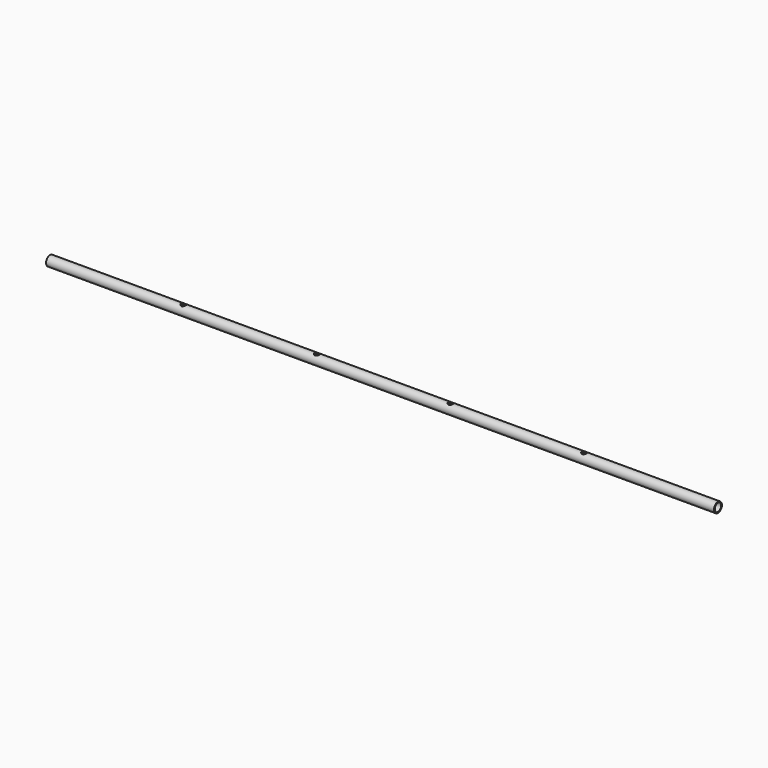
from build123d import *

# Parameters (mm, degrees)
F0_R     = 12.7
F0_R_2   = 10.210562
F1_DEPTH = 1706.88
F2_R     = 6.35
F3_DEPTH = 25.4


with BuildPart() as f1:
    # F0 (on Right) → F1 (new body)
    with BuildSketch(Plane.YZ):
        Circle(F0_R)
        Circle(F0_R_2, mode=Mode.SUBTRACT)
    extrude(amount=F1_DEPTH)

    # F2 (on Top) → F3 (cut)
    with BuildSketch(Plane.XY):
        with Locations((341.376, 0)):
            Circle(F2_R)
        with Locations((682.752, 0)):
            Circle(F2_R)
        with Locations((1024.128, 0)):
            Circle(F2_R)
        with Locations((1365.504, 0)):
            Circle(F2_R)
    extrude(amount=F3_DEPTH, mode=Mode.SUBTRACT)


solid = f1.part
